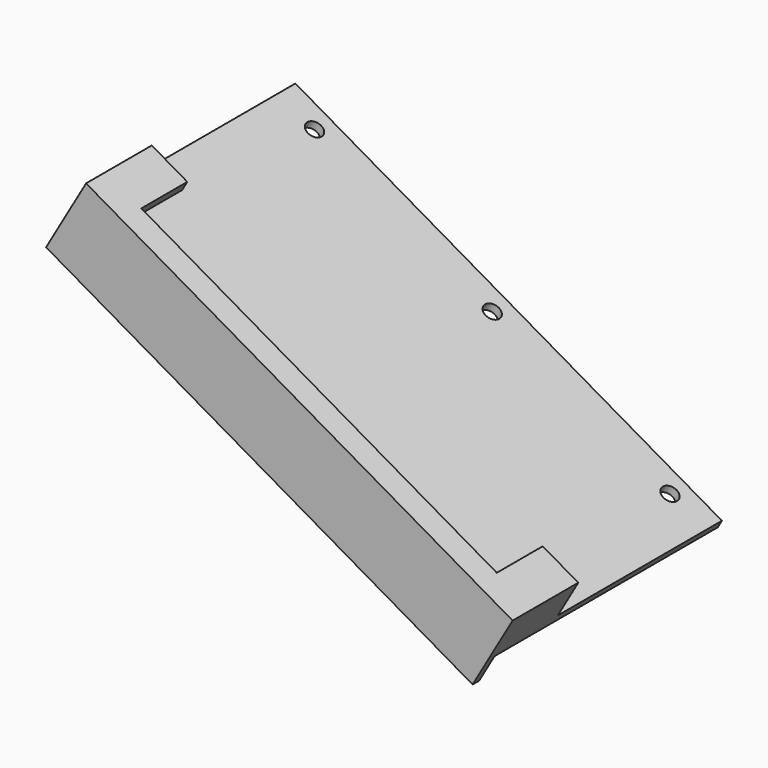
from build123d import *

# Parameters (mm, degrees)
F0_W      = 152.4
F0_H      = 88.9
F1_DEPTH  = 2.54
F3_DEPTH  = 12.7
F4_W      = 127
F4_H      = 1.27
F5_DEPTH  = 5.08
F6_W      = 146.05
F6_H      = 9.525
F7_DEPTH  = 22.86
F8_R      = 2.54
F9_DEPTH  = 2.541
F10_W     = 152.4
F10_H     = 2.54
F11_DEPTH = 9.525
F12_ANGLE = 30


with BuildPart() as f1:
    # F0 (on Top) → F1 (new body)
    with BuildSketch(Plane.XY):
        Rectangle(F0_W, F0_H)
    extrude(amount=F1_DEPTH)

    # F2 (on face) → F3 (join)
    with BuildSketch(Plane.XY.offset(2.54)):
        Polygon((63.5, -41.91), (-63.5, -41.91), (-63.5, -19.05), (-76.2, -19.05), (-76.2, -44.45), (76.2, -44.45), (76.2, -19.05), (63.5, -19.05), align=None)
    extrude(amount=F3_DEPTH)

    # F4 (on face) → F5 (join)
    with BuildSketch(Plane(origin=(0, -41.91, 0), x_dir=(-1, 0, 0), z_dir=(0, 1, 0))):
        with Locations((0, 14.605)):
            Rectangle(F4_W, F4_H)
    extrude(amount=F5_DEPTH)

    # F6 (on face) → F7 (cut, through all)
    with BuildSketch(Plane(origin=(0, -19.05, 0), x_dir=(-1, 0, 0), z_dir=(0, 1, 0))):
        with Locations((0, 7.3025)):
            Rectangle(F6_W, F6_H)
    extrude(amount=-F7_DEPTH, mode=Mode.SUBTRACT)

    # F8 (on face) → F9 (cut, through all)
    with BuildSketch(Plane.XY.offset(2.54)):
        with Locations((0, 38.1)):
            Circle(F8_R)
        with Locations((-63.5, 38.1)):
            Circle(F8_R)
        with Locations((63.5, 38.1)):
            Circle(F8_R)
    extrude(amount=-F9_DEPTH, mode=Mode.SUBTRACT)

    # F10 (on face) → F11 (join)
    with BuildSketch(Plane(origin=(0, 0, 0), x_dir=(1, 0, 0), z_dir=(0, 0, -1))):
        with Locations((0, 43.18)):
            Rectangle(F10_W, F10_H)
    extrude(amount=F11_DEPTH)


with BuildPart() as f1_1:
    # F12: moved
    add(f1.part.rotate(Axis((-76.2, 12.7, 2.54), (0, 1, 0)), F12_ANGLE))


solid = f1_1.part
